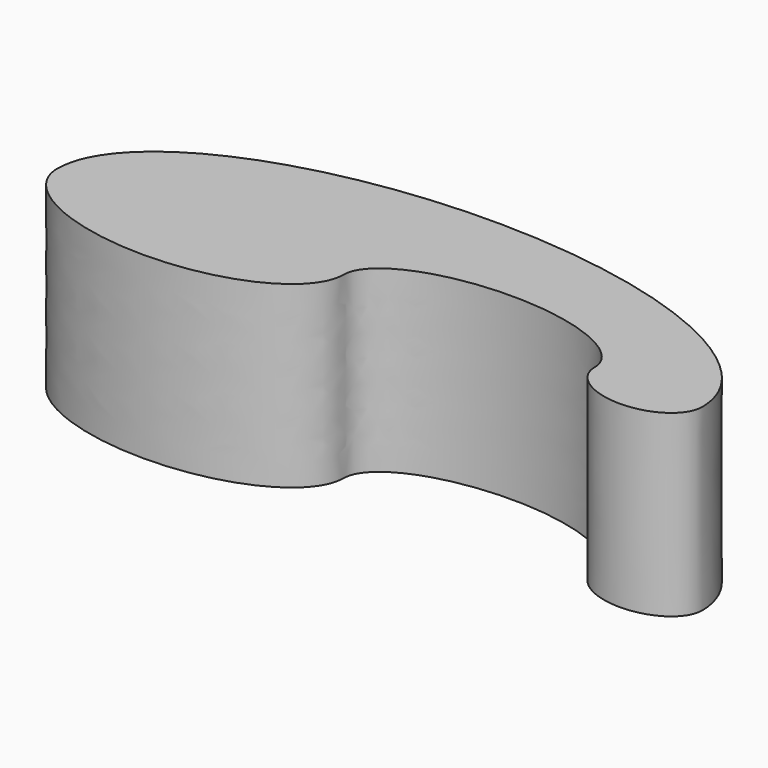
from build123d import *

# Parameters (mm, degrees)
F1_DEPTH = 25


with BuildPart() as f1:
    # F0 (on Top) → F1 (new body)
    with BuildSketch(Plane.XY):
        with BuildLine():
            add(Edge.make_bspline(
                [(70, 0), (70, 20), (25, 20), (-20, 20), (-20, 0)],
                knots=[0, 0, 0, 1.5707963268, 1.5707963268, 3.1415926536, 3.1415926536, 3.1415926536], degree=2, weights=[1, 0.7071067812, 1, 0.7071067812, 1]))
            add(Edge.make_bspline(
                [(-20, 0), (-20, -10), (0, -10), (20, -10), (20, 0)],
                knots=[3.1415926536, 3.1415926536, 3.1415926536, 4.7123889804, 4.7123889804, 6.2831853072, 6.2831853072, 6.2831853072], degree=2, weights=[1, 0.7071067812, 1, 0.7071067812, 1]))
            add(Edge.make_bspline(
                [(55, 0), (55, 7.5), (37.5, 7.5), (20, 7.5), (20, 0)],
                knots=[3.1415926536, 3.1415926536, 3.1415926536, 4.7123889804, 4.7123889804, 6.2831853072, 6.2831853072, 6.2831853072], degree=2, weights=[1, 0.7071067812, 1, 0.7071067812, 1]))
            add(Edge.make_bspline(
                [(55, 0), (55, -5), (62.5, -5), (70, -5), (70, 0)],
                knots=[0, 0, 0, 1.5707963268, 1.5707963268, 3.1415926536, 3.1415926536, 3.1415926536], degree=2, weights=[1, 0.7071067812, 1, 0.7071067812, 1]))
        make_face()
    extrude(amount=F1_DEPTH)


solid = f1.part
